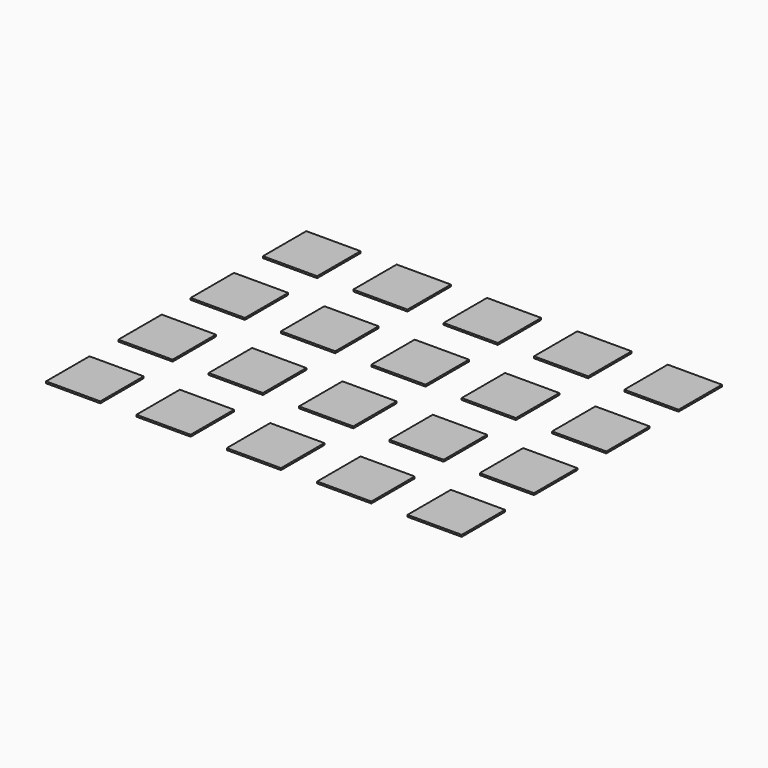
from build123d import *

# Parameters (mm, degrees)
F0_W     = 30
F0_H     = 30
F1_DEPTH = 1


with BuildPart() as f1:
    # F0 (on Top) → F1 (new body)
    with BuildSketch(Plane.XY):
        with Locations((25, 25)):
            Rectangle(F0_W, F0_H)
        with Locations((25, 75)):
            Rectangle(F0_W, F0_H)
        with Locations((25, 125)):
            Rectangle(F0_W, F0_H)
        with Locations((25, 175)):
            Rectangle(F0_W, F0_H)
        with Locations((75, 25)):
            Rectangle(F0_W, F0_H)
        with Locations((75, 75)):
            Rectangle(F0_W, F0_H)
        with Locations((75, 125)):
            Rectangle(F0_W, F0_H)
        with Locations((75, 175)):
            Rectangle(F0_W, F0_H)
        with Locations((125, 25)):
            Rectangle(F0_W, F0_H)
        with Locations((125, 75)):
            Rectangle(F0_W, F0_H)
        with Locations((125, 125)):
            Rectangle(F0_W, F0_H)
        with Locations((125, 175)):
            Rectangle(F0_W, F0_H)
        with Locations((175, 25)):
            Rectangle(F0_W, F0_H)
        with Locations((175, 75)):
            Rectangle(F0_W, F0_H)
        with Locations((175, 125)):
            Rectangle(F0_W, F0_H)
        with Locations((175, 175)):
            Rectangle(F0_W, F0_H)
        with Locations((225, 25)):
            Rectangle(F0_W, F0_H)
        with Locations((225, 75)):
            Rectangle(F0_W, F0_H)
        with Locations((225, 125)):
            Rectangle(F0_W, F0_H)
        with Locations((225, 175)):
            Rectangle(F0_W, F0_H)
    extrude(amount=F1_DEPTH)


solid = f1.part
